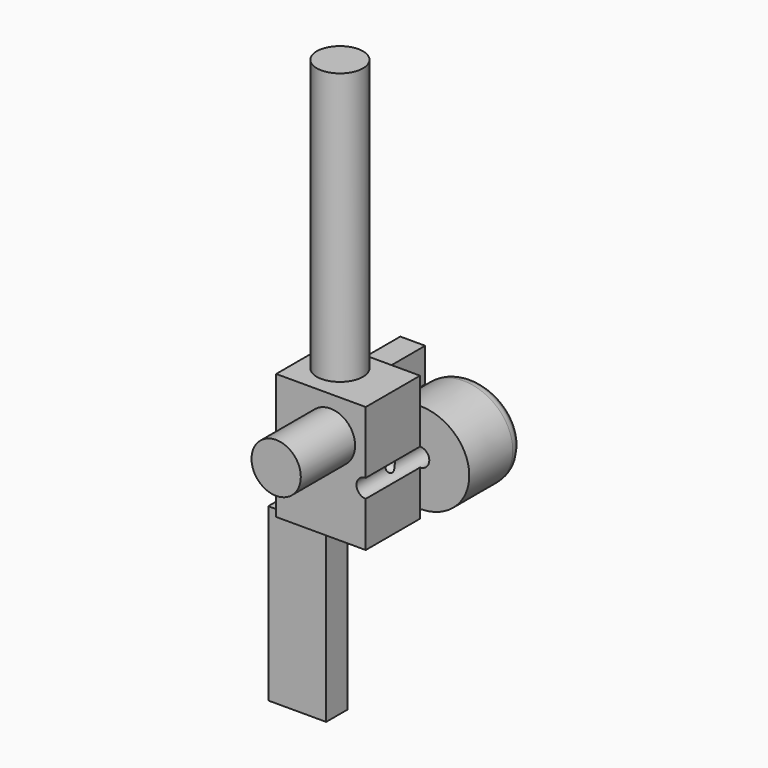
from build123d import *

# Parameters (mm, degrees)
F0_W           = 32.9829213189
F0_H           = 46.3607293487
F1_DEPTH       = 25
F2_R           = 9.0764857075
F3_DEPTH       = 25
F5_DEPTH       = 25
F7_D           = 6.8
F7_CBORE_D     = 14.25
F7_CBORE_DEPTH = 8
F9_D           = 4.2
F9_CSINK_D     = 11.2
F9_CSINK_ANGLE = 90
F10_R          = 8.5134685027
F11_DEPTH      = 100
F12_W          = 9.1509986669
F12_H          = 12.5092789531
F13_DEPTH      = 25
F14_W          = 21.3182359003
F14_H          = 9.7881210968
F15_DEPTH      = 63
F16_R          = 5


with BuildPart() as f1:
    # F0 (on Front) → F1 (new body)
    with BuildSketch(Plane.XZ):
        with Locations((-3.5085393405, 3.1803646744)):
            Rectangle(F0_W, F0_H)
    extrude(amount=F1_DEPTH)

    # F2 (on face) → F3 (join)
    with BuildSketch(Plane.XZ.offset(25)):
        with Locations((0, 12.5744864345)):
            Circle(F2_R)
    extrude(amount=F3_DEPTH)

    # F4 (on face) → F5 (join)
    with BuildSketch(Plane(origin=(0, 0, 0), x_dir=(-1, 0, 0), z_dir=(0, 1, 0))):
        with BuildLine():
            add(Edge.make_bspline(
                [(-12.9829213189, -16.8193947008), (5.1416382194, -16.8193947008), (5.1416382194, -0.1332014799)],
                knots=[4.7123889804, 4.7123889804, 4.7123889804, 6.2831853072, 6.2831853072, 6.2831853072], degree=2, weights=[1, 0.7071067812, 1]))
            add(Edge.make_bspline(
                [(5.1416382194, -0.1332014799), (5.1416382194, 16.552991741), (-12.9829213189, 16.552991741)],
                knots=[0, 0, 0, 1.5707963268, 1.5707963268, 1.5707963268], degree=2, weights=[1, 0.7071067812, 1]))
            Line((-12.9829213189, 16.552991741), (-12.9829213189, -16.8193947008))
        make_face()
        with BuildLine():
            Line((-12.9829213189, -16.8193947008), (-12.9829213189, 16.552991741))
            add(Edge.make_bspline(
                [(-12.9829213189, 16.552991741), (-31.1074808572, 16.552991741), (-31.1074808572, -0.1332014799), (-31.1074808572, -16.8193947008), (-12.9829213189, -16.8193947008)],
                knots=[1.5707963268, 1.5707963268, 1.5707963268, 3.1415926536, 3.1415926536, 4.7123889804, 4.7123889804, 4.7123889804], degree=2, weights=[1, 0.7071067812, 1, 0.7071067812, 1]))
        make_face()
    extrude(amount=F5_DEPTH)

    # F7 (through all)
    with Locations(Plane(origin=(0, 25, 0), x_dir=(-1, 0, 0), z_dir=(0, 1, 0))):
        with Locations((-12.9829213189, 0)):
            CounterBoreHole(F7_D / 2, F7_CBORE_D / 2, F7_CBORE_DEPTH)

    # F9 (through all)
    with Locations(Plane(origin=(-20, 0, 0), x_dir=(0, -1, 0), z_dir=(-1, 0, 0))):
        with Locations((9.4794901088, 0)):
            CounterSinkHole(F9_D / 2, F9_CSINK_D / 2, counter_sink_angle=F9_CSINK_ANGLE)

    # F10 (on face) → F11 (join)
    with BuildSketch(Plane.XY.offset(26.3607293487)):
        with Locations((-7.8948987648, -10.8059616759)):
            Circle(F10_R)
    extrude(amount=F11_DEPTH)

    # F12 (on face) → F13 (join)
    with BuildSketch(Plane(origin=(0, 0, 0), x_dir=(-1, 0, 0), z_dir=(0, 1, 0))):
        with Locations((9.7171375528, 13.7501917779)):
            Rectangle(F12_W, F12_H)
    extrude(amount=F13_DEPTH)

    # F14 (on face) → F15 (join)
    with BuildSketch(Plane(origin=(0, 0, -20), x_dir=(1, 0, 0), z_dir=(0, 0, -1))):
        with Locations((-15.3092734981, 16.2768163718)):
            Rectangle(F14_W, F14_H)
    extrude(amount=F15_DEPTH)

    # F16
    f16_edges = [f1.edges().sort_by_distance(p)[0] for p in [
        (31.107481, 25, -0.133201),
    ]]
    fillet(f16_edges, radius=F16_R)


solid = f1.part
